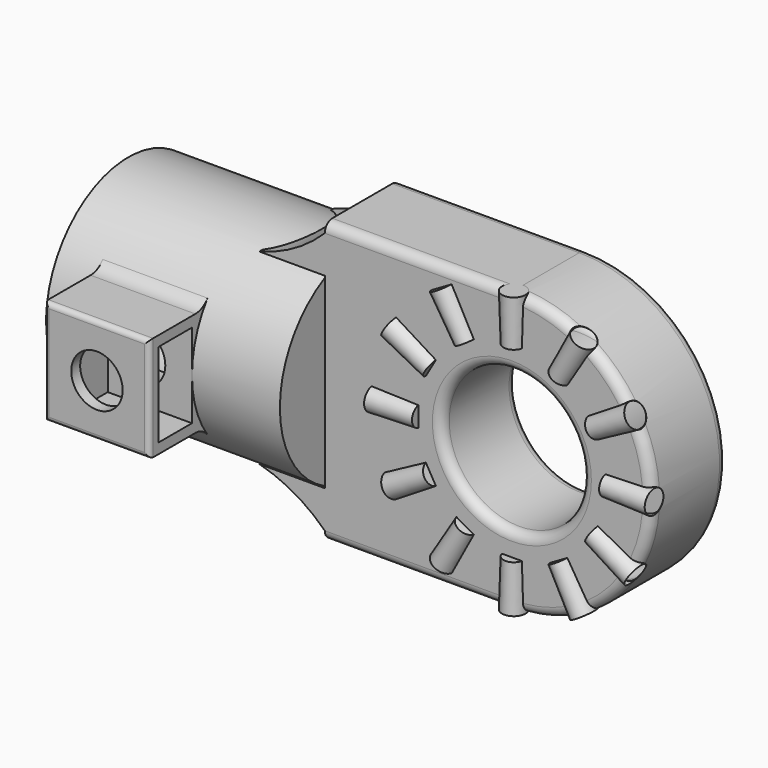
from build123d import *

# Parameters (mm, degrees)
SKETCH008_R           = 7.5
PAD005_DEPTH          = 5
FILLET001_R           = 1
POLARPATTERN001_COUNT = 12
SKETCH011_R           = 11
PAD007_DEPTH          = 25
SKETCH012_W           = 11.2
SKETCH012_H           = 11.2
PAD008_DEPTH          = 16.7
SKETCH013_W           = 9
SKETCH013_H           = 4.5
POCKET001_DEPTH       = 9
SKETCH014_R           = 2.75
HOLE002_DEPTH         = 23.347633
HOLE002_TIPS_R        = 2.75
SKETCH015_R           = 8.375
POCKET002_DEPTH       = 20
FILLET002_R           = 2
FILLET003_R           = 0.5
PAD009_DEPTH          = 5


with BuildPart() as body003:
    # Sketch008 → Pad005 (new body, symmetric)
    with BuildSketch(Plane.XZ):
        with BuildLine():
            ThreePointArc((-5.2e-05, -15), (15, -2.6e-05), (0, 15))
            Line((0, 15), (-20, 15))
            Line((-20, 15), (-20, -15))
            Line((-20, -15), (-5.2e-05, -15))
        make_face()
        Circle(SKETCH008_R, mode=Mode.SUBTRACT)
    extrude(amount=PAD005_DEPTH, both=True)

    # Fillet001
    fillet001_edges = [body003.edges().sort_by_distance(p)[0] for p in [
        (15, -5, -2.6e-05),
        (-7.5, -5, 0),
        (15, 5, -2.6e-05),
        (-7.5, 5, 0),
    ]]
    fillet(fillet001_edges, radius=FILLET001_R)

    # Sketch009 (on Face7 of Pad005) → Revolution001 (revolve)
    with BuildSketch(Plane.XZ.offset(4.75)):
        Polygon((10, 0), (10, -1.1), (15, -1.25), (15, 0), align=None)
    revolution001 = revolve(axis=Axis((0, -4.75, 0), (1, 0, 0)))

    # PolarPattern001: Revolution001 ×12 about axis
    polarpattern001_axis = Axis((0, -4.75, 0), (0, -1, 0))
    for i in range(1, POLARPATTERN001_COUNT):
        add(revolution001.rotate(polarpattern001_axis, i * 360 / POLARPATTERN001_COUNT))


with BuildPart() as body004:
    # Sketch011 (on Face26 of PolarPattern001) → Pad007 (new body)
    with BuildSketch(Plane(origin=(-20, 0, 0), x_dir=(0, 0, -1), z_dir=(-1, 0, 0))):
        Circle(SKETCH011_R)
    extrude(amount=PAD007_DEPTH)

    # Sketch012 → Pad008 (join)
    with BuildSketch(Plane.XZ):
        with Locations((-35, 0)):
            Rectangle(SKETCH012_W, SKETCH012_H)
    extrude(amount=PAD008_DEPTH)

    # Sketch013 (on Face72 of Pad008) → Pocket001 (cut)
    with BuildSketch(Plane(origin=(-29.4, 0, 0), x_dir=(0, 0, 1), z_dir=(1, 0, 0))):
        with Locations((0, 13.25)):
            Rectangle(SKETCH013_W, SKETCH013_H)
    extrude(amount=-POCKET001_DEPTH, mode=Mode.SUBTRACT)

    # Sketch014 (on Face75 of Pocket001) → Hole002 (cut)
    with BuildSketch(Plane.XZ.offset(16.7)):
        with Locations((-35, 0)):
            Circle(SKETCH014_R)
    extrude(amount=-HOLE002_DEPTH, mode=Mode.SUBTRACT)

    # Hole002 tips → Hole002 tip 1 section 0
    with BuildSketch(Plane.XZ.offset(-6.647633), mode=Mode.PRIVATE) as hole002_tip_1_s0:
        with Locations((-35, 0)):
            Circle(HOLE002_TIPS_R)
    loft([hole002_tip_1_s0.sketch, Vertex(-35, 8.3, 0)], mode=Mode.SUBTRACT)

    # Sketch015 (on Face70 of Pad007) → Pocket002 (cut)
    with BuildSketch(Plane(origin=(-45, 0, 0), x_dir=(0, 0, -1), z_dir=(-1, 0, 0))):
        Circle(SKETCH015_R)
    extrude(amount=-POCKET002_DEPTH, mode=Mode.SUBTRACT)

    # Fillet002
    fillet002_edges = [body004.edges().sort_by_distance(p)[0] for p in [
        (-35, -9.46784, 5.6),
        (-35, -9.46784, -5.6),
    ]]
    fillet(fillet002_edges, radius=FILLET002_R)

    # Fillet003
    fillet003_edges = [body004.edges().sort_by_distance(p)[0] for p in [
        (-35, -16.7, 5.6),
        (-40.6, -16.7, 0),
        (-35, -16.7, -5.6),
        (-29.4, -16.7, 0),
    ]]
    fillet(fillet003_edges, radius=FILLET003_R)

    # Boolean: union Body003
    add(body003.part)

    # Sketch016 → Pad009 (join, symmetric)
    with BuildSketch(Plane.XZ):
        with BuildLine():
            Line((-20, 10), (-27, 10))
            ThreePointArc((-27, 10), (-23.236695, 11.539216), (-20, 14))
            Line((-20, 14), (-20, 10))
        make_face()
    pad009 = extrude(amount=PAD009_DEPTH, both=True)

    # Mirrored001: Pad009 across Sketch016 H_Axis
    add(pad009.mirror(Plane(origin=(0, 0, 0), x_dir=(0, -1, 0), z_dir=(0, 0, 1))))


solid = body004.part
